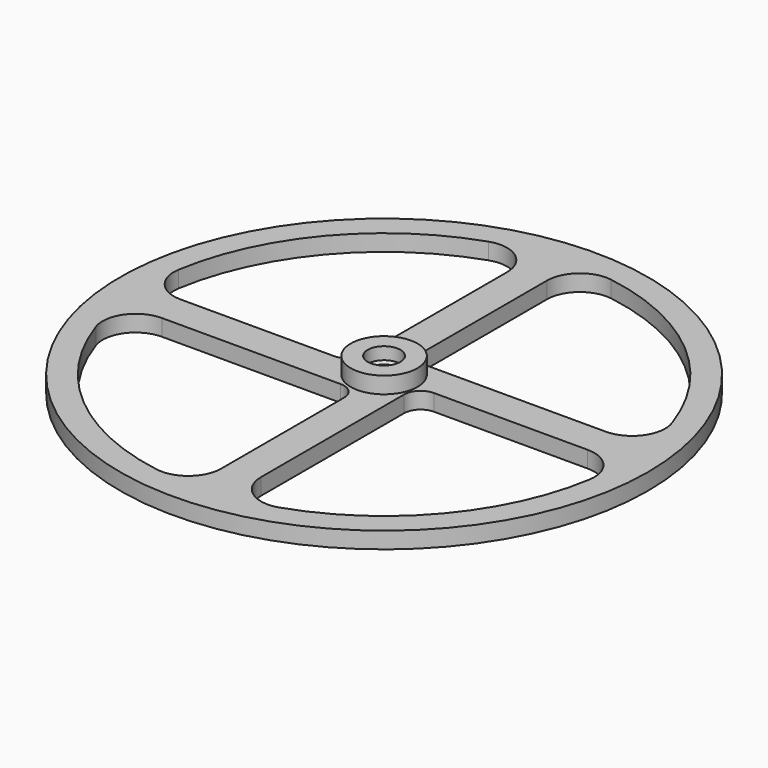
from build123d import *

# Parameters (mm, degrees)
F0_R      = 101.6404719392
F1_DEPTH  = 6.35
F2_R      = 12.7
F3_R      = 12.7
F4_R      = 12.7
F5_R      = 12.7
F6_R      = 12.8569190272
F7_DEPTH  = 6.35
F9_D      = 12.5984
F9_DEPTH  = 4.7498
F9_TIP    = 3.7849412114
F11_D     = 12.5984
F11_DEPTH = 4.7498
F11_TIP   = 3.7849412114
F12_D     = 10.0584


with BuildPart() as f1:
    # F0 (on Top) → F1 (new body)
    with BuildSketch(Plane.XY):
        Circle(F0_R)
        with BuildLine():
            ThreePointArc((91.2431268086, 12.6268099993), (91.8950293011, 6.328357632), (92.112672964, 0))
            ThreePointArc((92.112672964, 0), (69.5117488598, -60.438905442), (12.7997798845, -91.2190229912))
            ThreePointArc((12.7997798845, -91.2190229912), (6.4154691053, -91.8889888764), (0, -92.112672964))
            ThreePointArc((0, -92.112672964), (-60.3729648841, -69.5690278189), (-91.194584597, -12.972750701))
            ThreePointArc((-91.194584597, -12.972750701), (-91.8828642012, -6.5025984614), (-92.112672964, 0))
            ThreePointArc((-92.112672964, 0), (-69.5117488598, 60.438905442), (-12.7997798845, 91.2190229912))
            ThreePointArc((-12.7997798845, 91.2190229912), (-6.4154691053, 91.8889888764), (0, 92.112672964))
            ThreePointArc((0, 92.112672964), (60.5047737808, 69.4544229715), (91.2431268086, 12.6268099993))
        make_face(mode=Mode.SUBTRACT)
        with BuildLine():
            Line((19.1497798845, 0), (92.112672964, 0))
            ThreePointArc((92.112672964, 0), (91.8950293011, 6.328357632), (91.2431268086, 12.6268099993))
            Line((91.2431268086, 12.6268099993), (6.35, 12.6268099993))
            ThreePointArc((6.35, 12.6268099993), (1.8598719395, 14.4866819388), (0, 18.9768099993))
            Line((0, 18.9768099993), (0, 92.112672964))
            ThreePointArc((0, 92.112672964), (-6.4154691053, 91.8889888764), (-12.7997798845, 91.2190229912))
            Line((-12.7997798845, 91.2190229912), (-12.7997798845, 6.35))
            ThreePointArc((-12.7997798845, 6.35), (-14.659651824, 1.8598719395), (-19.1497798845, 0))
            Line((-19.1497798845, 0), (-92.112672964, 0))
            ThreePointArc((-92.112672964, 0), (-91.8828642012, -6.5025984614), (-91.194584597, -12.972750701))
            Line((-91.194584597, -12.972750701), (-6.35, -12.972750701))
            ThreePointArc((-6.35, -12.972750701), (-1.8598719395, -14.8326226405), (0, -19.322750701))
            Line((0, -19.322750701), (0, -92.112672964))
            ThreePointArc((0, -92.112672964), (6.4154691053, -91.8889888764), (12.7997798845, -91.2190229912))
            Line((12.7997798845, -91.2190229912), (12.7997798845, -6.35))
            ThreePointArc((12.7997798845, -6.35), (14.659651824, -1.8598719395), (19.1497798845, 0))
        make_face()
    extrude(amount=F1_DEPTH)

    # F2
    f2_edges = [f1.edges().sort_by_distance(p)[0] for p in [
        (-91.194585, -12.972751, 3.175),
        (0, 92.112673, 3.175),
    ]]
    fillet(f2_edges, radius=F2_R)

    # F3
    f3_edges = [f1.edges().sort_by_distance(p)[0] for p in [
        (12.79978, -91.219023, 3.175),
        (-92.112673, 0, 3.175),
    ]]
    fillet(f3_edges, radius=F3_R)

    # F4
    f4_edges = [f1.edges().sort_by_distance(p)[0] for p in [
        (-12.79978, 91.219023, 3.175),
        (92.112673, 0, 3.175),
    ]]
    fillet(f4_edges, radius=F4_R)

    # F5
    f5_edges = [f1.edges().sort_by_distance(p)[0] for p in [
        (91.243127, 12.62681, 3.175),
        (0, -92.112673, 3.175),
    ]]
    fillet(f5_edges, radius=F5_R)

    # F6 (on face) → F7 (join)
    with BuildSketch(Plane.XY.offset(6.35)):
        Circle(F6_R)
    extrude(amount=F7_DEPTH)

    # F9
    with Locations(Plane.XY.offset(12.7)):
        with Locations((0, 0)):
            Hole(F9_D / 2, depth=F9_DEPTH)
            with Locations((0, 0, -(F9_DEPTH + F9_TIP / 2))):  # 118° drill point
                Cone(0, F9_D / 2, F9_TIP, mode=Mode.SUBTRACT)

    # F11
    with Locations(Plane(origin=(0, 0, 0), x_dir=(1, 0, 0), z_dir=(0, 0, -1))):
        with Locations((0, 0)):
            Hole(F11_D / 2, depth=F11_DEPTH)
            with Locations((0, 0, -(F11_DEPTH + F11_TIP / 2))):  # 118° drill point
                Cone(0, F11_D / 2, F11_TIP, mode=Mode.SUBTRACT)

    # F12 (through all)
    with Locations(Plane(origin=(0, 0, 0), x_dir=(1, 0, 0), z_dir=(0, 0, -1))):
        with Locations((0, 0)):
            Hole(F12_D / 2)


solid = f1.part
